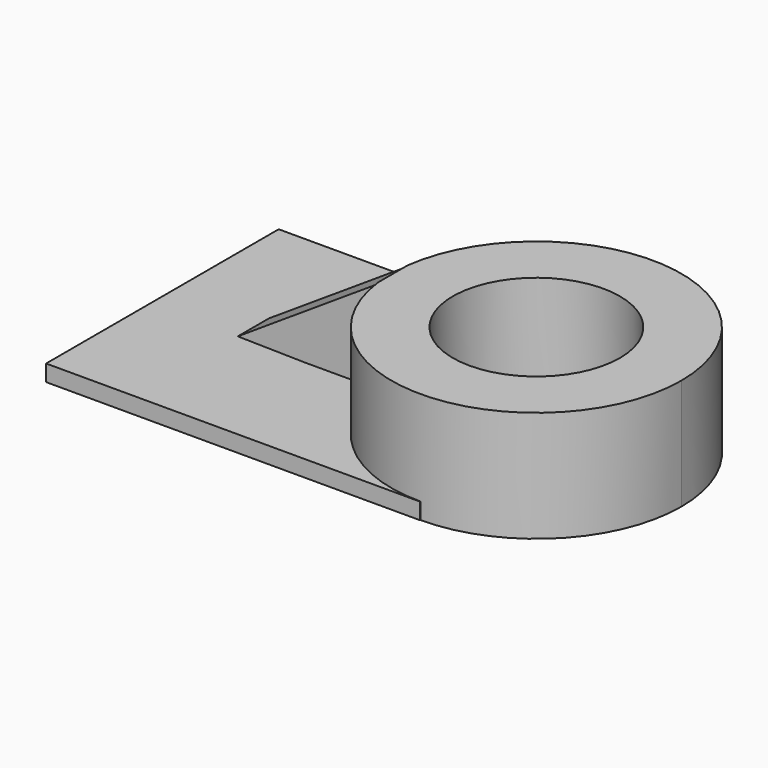
from build123d import *

# Parameters (mm, degrees)
F1_DEPTH = 22.352
F2_DEPTH = 3.302
F4_DEPTH = 15.24
F5_DEPTH = 7.366


with BuildPart() as f1:
    # F0 (on Top) → F1 (new body)
    with BuildSketch(Plane.XY):
        with BuildLine():
            ThreePointArc((10.3024817516, -11.647160165), (1.7494492179, 9.0016869774), (-18.8993979245, 17.5547195112))
            Line((-18.8993979245, 17.5547195112), (-18.8993979245, 5.1860932686))
            ThreePointArc((-18.8993979245, 5.1860932686), (-6.9964902722, 0.2557474873), (-2.0661444909, -11.647160165))
            ThreePointArc((-2.0661444909, -11.647160165), (-6.9964902722, -23.5500678174), (-18.8993979245, -28.4804135986))
            Line((-18.8993979245, -28.4804135986), (-18.8993979245, -40.8490398412))
            ThreePointArc((-18.8993979245, -40.8490398412), (1.7494492179, -32.2960073074), (10.3024817516, -11.647160165))
        make_face()
        with BuildLine():
            Line((-18.8993979245, 5.1860932686), (-18.8993979245, 17.5547195112))
            ThreePointArc((-18.8993979245, 17.5547195112), (-38.2082616966, 10.2598605465), (-47.8701137319, -7.9800901862))
            Line((-47.8701137319, -7.9800901862), (-47.8701137319, -15.3142301438))
            ThreePointArc((-47.8701137319, -15.3142301438), (-38.2082616966, -33.5541808765), (-18.8993979245, -40.8490398412))
            Line((-18.8993979245, -40.8490398412), (-18.8993979245, -28.4804135986))
            ThreePointArc((-18.8993979245, -28.4804135986), (-35.7326513582, -11.647160165), (-18.8993979245, 5.1860932686))
        make_face()
    extrude(amount=F1_DEPTH)

    # F0 (on Top) → F2 (join)
    with BuildSketch(Plane.XY):
        with BuildLine():
            Line((-18.8993979245, 17.6407303661), (-94.2506045103, 17.6407303661))
            Line((-94.2506045103, 17.6407303661), (-94.2506045103, -40.9350506961))
            Line((-94.2506045103, -40.9350506961), (-18.8993979245, -40.9350506961))
            Line((-18.8993979245, -40.9350506961), (-18.8993979245, -40.8490398412))
            ThreePointArc((-18.8993979245, -40.8490398412), (-38.2082616966, -33.5541808765), (-47.8701137319, -15.3142301438))
            Line((-47.8701137319, -15.3142301438), (-76.080955565, -15.3142301438))
            Line((-76.080955565, -15.3142301438), (-76.080955565, -6.896413397))
            Line((-76.080955565, -6.896413397), (-47.8701137319, -6.896413397))
            Line((-47.8701137319, -6.896413397), (-47.8701137319, -7.9800901862))
            ThreePointArc((-47.8701137319, -7.9800901862), (-38.2082616966, 10.2598605465), (-18.8993979245, 17.5547195112))
            Line((-18.8993979245, 17.5547195112), (-18.8993979245, 17.6407303661))
        make_face()
        with BuildLine():
            ThreePointArc((-47.8701137319, -15.3142301438), (-48.1012776007, -11.647160165), (-47.8701137319, -7.9800901862))
            Line((-47.8701137319, -7.9800901862), (-47.8701137319, -6.896413397))
            Line((-47.8701137319, -6.896413397), (-76.080955565, -6.896413397))
            Line((-76.080955565, -6.896413397), (-76.080955565, -15.3142301438))
            Line((-76.080955565, -15.3142301438), (-47.8701137319, -15.3142301438))
        make_face()
    extrude(amount=F2_DEPTH)

    # F3 (on Front) → F4 (join)
    with BuildSketch(Plane.XZ):
        Polygon((-47.818031162, 22.1061483026), (-76.1827602983, 3.543845145), (-47.818031162, 3.0327689167), align=None)
    extrude(amount=F4_DEPTH)

    # F5 (cut): a face of the model
    f5_faces = [f1.faces().sort_by_distance(p)[0] for p in [
        (-57.3064596084, 0, 9.6084828756),
    ]]
    extrude(f5_faces, amount=-F5_DEPTH, mode=Mode.SUBTRACT)


solid = f1.part
